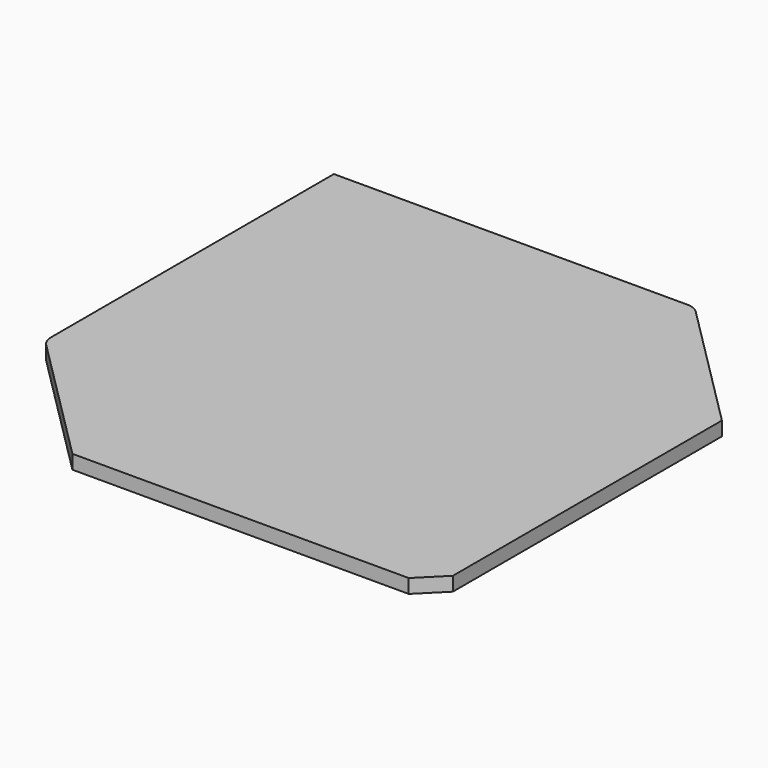
from build123d import *

# Parameters (mm, degrees)
F0_W      = 110
F0_H      = 110
F1_DEPTH  = 5
F3_DEPTH  = 100
F4_SIZE   = 7
F6_DEPTH  = 5
F8_DEPTH  = 100
F9_R      = 3
F10_R     = 3
F11_R     = 5
F12_R     = 40
F13_DEPTH = 2
F14_R     = 40
F15_DEPTH = 2
F17_DEPTH = 200


with BuildPart() as f1:
    # F0 (on Top) → F1 (new body)
    with BuildSketch(Plane.XY):
        Rectangle(F0_W, F0_H)
    extrude(amount=F1_DEPTH)

    # F2 (on face) → F3 (join)
    with BuildSketch(Plane.XY.offset(5)):
        Polygon((-55, -45), (-55, -55), (-45, -55), (-45, -50), (-50, -50), (-50, -45), align=None)
        Polygon((45, -50), (45, -55), (55, -55), (55, -45), (50, -45), (50, -50), align=None)
        Polygon((50, 45), (55, 45), (55, 55), (45, 55), (45, 50), (50, 50), align=None)
        Polygon((-55, 45), (-50, 45), (-50, 50), (-45, 50), (-45, 55), (-55, 55), align=None)
    extrude(amount=F3_DEPTH)

    # F4
    f4_edges = [f1.edges().sort_by_distance(p)[0] for p in [
        (55, -55, 52.5),
        (55, 55, 52.5),
        (-55, -55, 52.5),
        (-55, 55, 52.5),
    ]]
    chamfer(f4_edges, length=F4_SIZE)

    # F5 (on face) → F6 (join)
    with BuildSketch(Plane(origin=(0, 0, 0), x_dir=(1, 0, 0), z_dir=(0, 0, -1))):
        Polygon((-55, -48), (-55, 48), (-86.8553390593, 16.1446609407), (-86.8553390593, -86.8553390593), (16.1446609407, -86.8553390593), (48, -55), (-48, -55), align=None)
    extrude(amount=-F6_DEPTH)

    # F7 (on face) → F8 (join)
    with BuildSketch(Plane.XY.offset(5)):
        with BuildLine():
            Line((-86.8553390593, -16.1446609407), (-55, -48))
            Line((-55, -48), (-55, -45))
            add(Edge.make_bspline(
                [(-55, -45), (-61.680716385, -38.545717713), (-73.8128115293, -26.9133031572), (-84.5587400556, -12.5278182858), (-85.5100929907, -5.3594725865), (-85.6892368288, -2.2746161558)],
                knots=[0, 0, 0, 0, 0.4166944434, 0.7503780711, 1, 1, 1, 1], degree=3))
            Line((-85.6892368288, -2.2746161558), (-85.6892368288, 84.628576657))
            Line((-85.6892368288, 84.628576657), (-52.0303300859, 50.9696699141))
            Line((-52.0303300859, 50.9696699141), (-50.9696699141, 52.0303300859))
            Line((-50.9696699141, 52.0303300859), (-84.628576657, 85.6892368288))
            Line((-84.628576657, 85.6892368288), (2.2746161558, 85.6892368288))
            add(Edge.make_bspline(
                [(45, 55), (38.545717713, 61.680716385), (26.9133031572, 73.8128115293), (12.5278182858, 84.5587400556), (5.3594725865, 85.5100929907), (2.2746161558, 85.6892368288)],
                knots=[0, 0, 0, 0, 0.4166944434, 0.7503780711, 1, 1, 1, 1], degree=3))
            Line((45, 55), (48, 55))
            Line((48, 55), (16.1446609407, 86.8553390593))
            Line((16.1446609407, 86.8553390593), (-86.8553390593, 86.8553390593))
            Line((-86.8553390593, 86.8553390593), (-86.8553390593, -16.1446609407))
        make_face()
    extrude(amount=F8_DEPTH)

    # F9
    f9_edges = [f1.edges().sort_by_distance(p)[0] for p in [
        (-50.96967, 52.03033, 55),
        (-52.03033, 50.96967, 55),
    ]]
    fillet(f9_edges, radius=F9_R)

    # F10
    f10_edges = [f1.edges().sort_by_distance(p)[0] for p in [
        (45, 55, 55),
        (-55, -45, 55),
        (-85.689237, 84.628577, 55),
        (-84.628577, 85.689237, 55),
    ]]
    fillet(f10_edges, radius=F10_R)

    # F11
    f11_edges = [f1.edges().sort_by_distance(p)[0] for p in [
        (-86.855339, -16.144661, 52.5),
        (16.144661, 86.855339, 52.5),
    ]]
    fillet(f11_edges, radius=F11_R)

    # F12 (on face) → F13 (cut)
    with BuildSketch(Plane(origin=(0, 86.8553390593, 0), x_dir=(-1, 0, 0), z_dir=(0, 1, 0))):
        with Locations((36.3908729653, 52.5)):
            Circle(F12_R)
    extrude(amount=-F13_DEPTH, mode=Mode.SUBTRACT)

    # F14 (on face) → F15 (cut)
    with BuildSketch(Plane(origin=(-86.8553390593, 0, 0), x_dir=(0, -1, 0), z_dir=(-1, 0, 0))):
        with Locations((-36.3908729653, 52.5)):
            Circle(F14_R)
    extrude(amount=-F15_DEPTH, mode=Mode.SUBTRACT)

    # F16 (on face) → F17 (cut)
    with BuildSketch(Plane(origin=(51.5, -51.5, 0), x_dir=(0.7071067812, 0.7071067812, 0), z_dir=(0.7071067812, -0.7071067812, 0))):
        Polygon((0, 105), (-74.4917392731, 105), (-74.4917392731, 4), (75.3377377987, 4), (75.3377377987, 105), (4.9497474683, 105), align=None)
    extrude(amount=-F17_DEPTH, mode=Mode.SUBTRACT)


solid = f1.part
